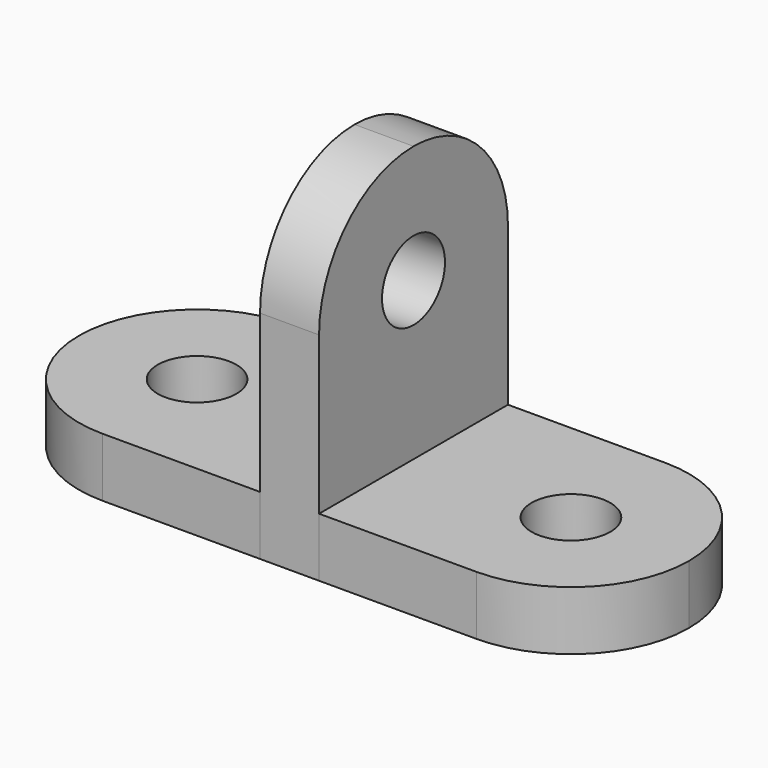
from build123d import *

# Parameters (mm, degrees)
F1_DEPTH = 9.525
F0_W     = 9.525
F0_H     = 38.1
F2_DEPTH = 53.975
F4_DEPTH = 25.4
F5_D     = 12.7
F6_D     = 12.7
F8_D     = 12.7


with BuildPart() as f1:
    # F0 (on Top) → F1 (new body)
    with BuildSketch(Plane.XY):
        with BuildLine():
            Line((3.2085415721, 19.5902753621), (-22.1914584279, 19.5902753621))
            Line((-22.1914584279, 19.5902753621), (-22.1914584279, -18.5097246379))
            Line((-22.1914584279, -18.5097246379), (3.2085415721, -18.5097246379))
            ThreePointArc((3.2085415721, -18.5097246379), (16.6789257537, -12.9301088195), (22.2585415721, 0.5402753621))
            ThreePointArc((22.2585415721, 0.5402753621), (16.6789257537, 14.0106595437), (3.2085415721, 19.5902753621))
        make_face()
    extrude(amount=F1_DEPTH)

    # F6 (through all)
    with Locations(Plane(origin=(0, 0, 0), x_dir=(1, 0, 0), z_dir=(0, 0, -1))):
        with Locations((3.2085415721, -0.5402753621)):
            Hole(F6_D / 2)


with BuildPart() as f1b:
    # F0 (on Top) → F1, piece 2 (new body)
    with BuildSketch(Plane.XY):
        with BuildLine():
            Line((-31.7164584279, 19.5902753621), (-57.1164584279, 19.5902753621))
            ThreePointArc((-57.1164584279, 19.5902753621), (-70.5868426095, 14.0106595437), (-76.1664584279, 0.5402753621))
            ThreePointArc((-76.1664584279, 0.5402753621), (-70.5868426095, -12.9301088195), (-57.1164584279, -18.5097246379))
            Line((-57.1164584279, -18.5097246379), (-31.7164584279, -18.5097246379))
            Line((-31.7164584279, -18.5097246379), (-31.7164584279, 19.5902753621))
        make_face()
    extrude(amount=F1_DEPTH)

    # F5 (through all)
    with Locations(Plane(origin=(0, 0, 0), x_dir=(1, 0, 0), z_dir=(0, 0, -1))):
        with Locations((-57.1164584279, -0.5402753621)):
            Hole(F5_D / 2)


with BuildPart() as f2:
    # F0 (on Top) → F2 (new body)
    with BuildSketch(Plane.XY):
        with Locations((-26.9539584279, 0.5402753621)):
            Rectangle(F0_W, F0_H)
    extrude(amount=F2_DEPTH)

    # F3 (on face) → F4 (cut)
    with BuildSketch(Plane.YZ.offset(-22.1914584279)):
        with BuildLine():
            ThreePointArc((-18.5097246379, 34.925), (-12.9301088195, 48.3953841816), (0.5402753621, 53.975))
            Line((0.5402753621, 53.975), (-18.5097246379, 53.975))
            Line((-18.5097246379, 53.975), (-18.5097246379, 34.925))
        make_face()
        with BuildLine():
            ThreePointArc((0.5402753621, 53.975), (14.0106595437, 48.3953841816), (19.5902753621, 34.925))
            Line((19.5902753621, 34.925), (19.5902753621, 53.975))
            Line((19.5902753621, 53.975), (0.5402753621, 53.975))
        make_face()
    extrude(amount=-F4_DEPTH, mode=Mode.SUBTRACT)

    # F8 (through all)
    with Locations(Plane.YZ.offset(-22.1914584279)):
        with Locations((0.5402753621, 34.925)):
            Hole(F8_D / 2)


solid = Compound([f1.part, f1b.part, f2.part])
